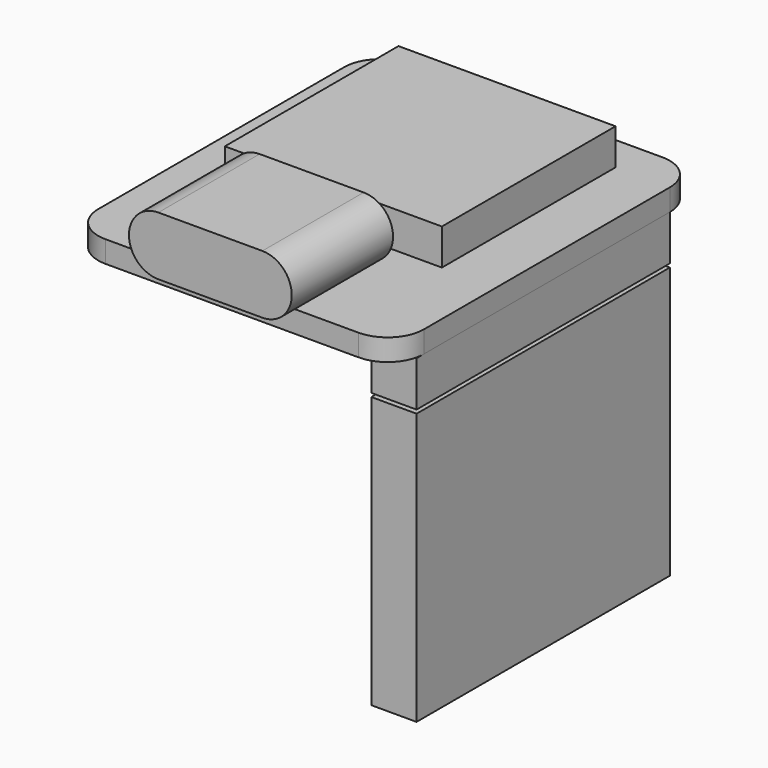
from build123d import *

# Parameters (mm, degrees)
PAD007_DEPTH      = 1.2
PAD008_DEPTH      = 1.5
PAD008_DEPTH_BACK = 5.5
SKETCH015_W       = 12
SKETCH015_H       = 12
PAD009_DEPTH      = 2
SKETCH016_W       = 2.5
SKETCH016_H       = 17.5
PAD010_DEPTH      = 2.5
PAD011_DEPTH      = 6
SKETCH018_W       = 2.5
SKETCH018_H       = 17.5
PAD012_DEPTH      = 15


with BuildPart() as mainboard:
    # Sketch013 → Pad007 (new body)
    with BuildSketch(Plane.XY):
        with BuildLine():
            Line((-7, 0), (7, 0))
            ThreePointArc((7, 0), (8.414214, 0.585786), (9, 2))
            Line((9, 2), (9, 19))
            ThreePointArc((9, 19), (8.414214, 20.414214), (7, 21))
            Line((7, 21), (-7, 21))
            ThreePointArc((-7, 21), (-8.414214, 20.414214), (-9, 19))
            Line((-9, 19), (-9, 2))
            ThreePointArc((-9, 2), (-8.414214, 0.585786), (-7, 0))
        make_face()
    extrude(amount=-PAD007_DEPTH)


with BuildPart() as obj1:
    # Sketch014 → Pad008 (new body, two sides)
    with BuildSketch(Plane.XZ) as pad008_sk:
        with BuildLine():
            ThreePointArc((-2.875, 3.25), (-4.5, 1.625), (-2.875, 0))
            Line((-2.875, 0), (2.875, 0))
            ThreePointArc((2.875, 0), (4.5, 1.625), (2.875, 3.25))
            Line((-2.875, 3.25), (2.875, 3.25))
        make_face()
    extrude(amount=PAD008_DEPTH)
    extrude(pad008_sk.sketch, amount=-PAD008_DEPTH_BACK)


with BuildPart() as cortexprocessor:
    # Sketch015 → Pad009 (new body)
    with BuildSketch(Plane.XY):
        with Locations((0, 13)):
            Rectangle(SKETCH015_W, SKETCH015_H)
    extrude(amount=PAD009_DEPTH)


with BuildPart() as pinblock_r:
    # Sketch016 (on DatumPlane) → Pad010 (new body)
    with BuildSketch(Plane.XY.offset(-1.2)):
        with Locations((-7.75, 10.25)):
            Rectangle(SKETCH016_W, SKETCH016_H)
    extrude(amount=-PAD010_DEPTH)


with BuildPart() as pinblock_r_1:
    # Body016 placement: moved
    add(pinblock_r.part.moved(Location((15.5, 0, 0))))


with BuildPart() as pins_r:
    # Sketch017 (on Face1 of CopyPad010) → Pad011 (new body)
    with BuildSketch(Plane(origin=(0, 0, -3.7), x_dir=(1, 0, 0), z_dir=(0, 0, -1))):
        with BuildLine():
            ThreePointArc((-7.425, -2.75), (-7.75, -2.425), (-8.075, -2.75))
            Line((-8.075, -2.75), (-8.075, -17.25))
            ThreePointArc((-8.075, -17.25), (-7.75, -17.575), (-7.425, -17.25))
            Line((-7.425, -2.75), (-7.425, -17.25))
        make_face()
    extrude(amount=PAD011_DEPTH)


with BuildPart() as pins_r_1:
    # Body018 placement: moved
    add(pins_r.part.moved(Location((15.5, 0, 0))))


with BuildPart() as pinblockext_r:
    # Sketch018 (on DatumPlane) → Pad012 (new body)
    with BuildSketch(Plane.XY.offset(-1.2)):
        with Locations((-7.75, 10.25)):
            Rectangle(SKETCH018_W, SKETCH018_H)
    extrude(amount=-PAD012_DEPTH)


with BuildPart() as pinblockext_r_1:
    # Body019 placement: moved
    add(pinblockext_r.part.moved(Location((0, 0, -2.7))))


with BuildPart() as pinblockext_r_2:
    # Clone009 placement: moved
    add(pinblockext_r_1.part.moved(Location((0, 0, 2.7))))


with BuildPart() as pinblockext_r_3:
    # Body020 placement: moved
    add(pinblockext_r_2.part.moved(Location((15.5, 0, -2.7))))


solid = Compound([mainboard.part, obj1.part, cortexprocessor.part, pinblock_r_1.part, pins_r_1.part, pinblockext_r_3.part])
